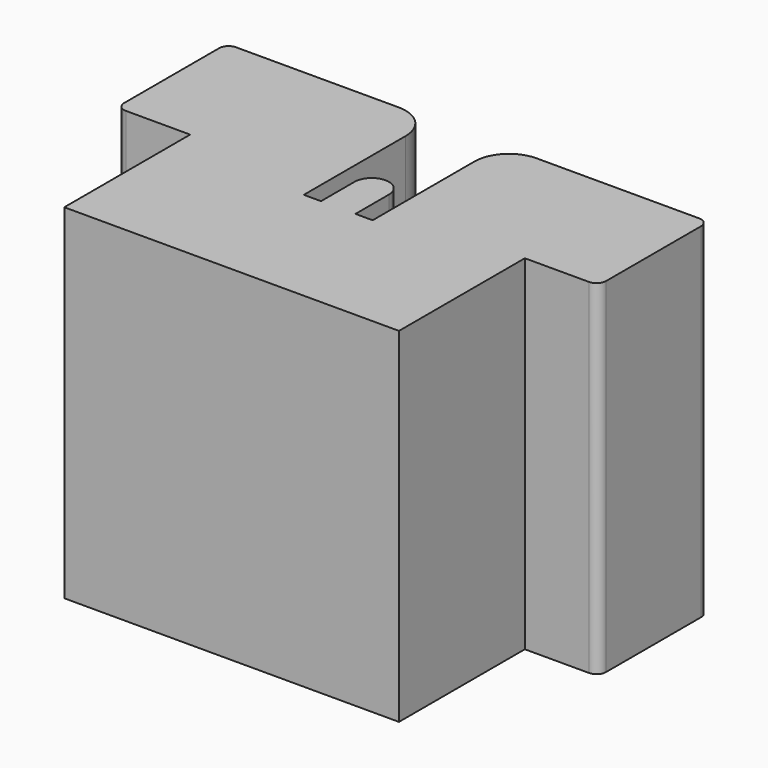
from build123d import *

# Parameters (mm, degrees)
F1_DEPTH = 10


with BuildPart() as f1:
    # F0 (on Top) → F1 (new body)
    with BuildSketch(Plane.XY):
        with BuildLine():
            Line((-4.861253, -2), (-1, -2))
            Line((-1, -2), (-1, 1))
            ThreePointArc((-1, 1), (-1.292893, 1.707107), (-2, 2))
            Line((-2, 2), (-6.726452, 2))
            ThreePointArc((-6.726452, 2), (-6.91988, 1.91988), (-7, 1.726452))
            Line((-7, 1.726452), (-7, -1.726452))
            ThreePointArc((-7, -1.726452), (-6.91988, -1.91988), (-6.726452, -2))
            Line((-6.726452, -2), (-4.861253, -2))
        make_face()
        with BuildLine():
            Line((1, -2), (4.861253, -2))
            Line((4.861253, -2), (6.726452, -2))
            ThreePointArc((6.726452, -2), (6.91988, -1.91988), (7, -1.726452))
            Line((7, -1.726452), (7, 1.726452))
            ThreePointArc((7, 1.726452), (6.91988, 1.91988), (6.726452, 2))
            Line((6.726452, 2), (2, 2))
            ThreePointArc((2, 2), (1.292893, 1.707107), (1, 1))
            Line((1, 1), (1, -2))
        make_face()
        Polygon((0.5, -2.699547), (0.5, -6.570132), (4.861253, -6.570132), (4.861253, -2), (1, -2), (1, -2.699547), align=None)
        Polygon((-1, -2.699547), (-1, -2), (-4.861253, -2), (-4.861253, -6.570132), (-0.5, -6.570132), (-0.5, -2.699547), align=None)
        with BuildLine():
            Line((-0.5, -1.483021), (-0.5, -2.699547))
            Line((-0.5, -2.699547), (-0.5, -6.570132))
            Line((-0.5, -6.570132), (0, -6.570132))
            Line((0, -6.570132), (0.5, -6.570132))
            Line((0.5, -6.570132), (0.5, -2.699547))
            Line((0.5, -2.699547), (0.5, -1.483021))
            ThreePointArc((0.5, -1.483021), (0, -1.983021), (-0.5, -1.483021))
        make_face()
        with BuildLine():
            ThreePointArc((0.5, -1.483021), (0, -0.983021), (-0.5, -1.483021))
            Line((-0.5, -1.483021), (0.5, -1.483021))
        make_face()
        with BuildLine():
            Line((0.5, -1.483021), (-0.5, -1.483021))
            ThreePointArc((-0.5, -1.483021), (0, -1.983021), (0.5, -1.483021))
        make_face()
    extrude(amount=F1_DEPTH)


solid = f1.part
